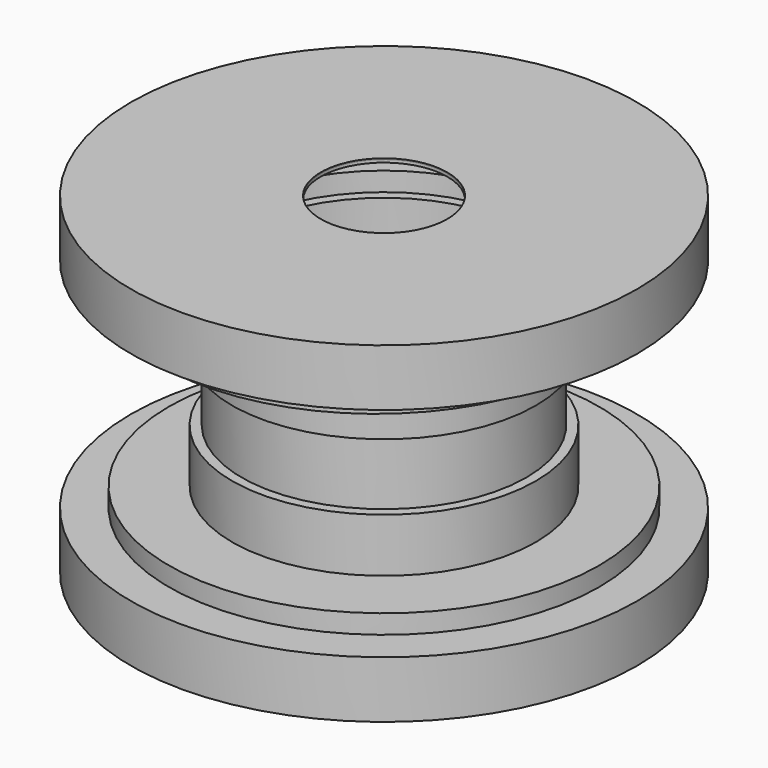
from build123d import *

# Parameters (mm, degrees)
F0_R      = 20
F0_R_2    = 17
F1_DEPTH  = 4.5
F0_R_3    = 12
F2_DEPTH  = 6
F0_R_4    = 11.25
F3_DEPTH  = 10.25
F0_R_5    = 5
F4_DEPTH  = 15.5
F5_R      = 12
F5_R_2    = 11.25
F6_DEPTH  = 4.7
F7_R      = 17
F7_R_2    = 12
F8_DEPTH  = 1.5
F9_R      = 20
F9_R_2    = 17
F10_DEPTH = 4.5
F11_R     = 20
F12_DEPTH = 0.1
F13_R     = 5
F14_DEPTH = 79
F15_R     = 12
F15_R_2   = 5
F16_DEPTH = 0.2


with BuildPart() as f1:
    # F0 (on Top) → F1 (new body)
    with BuildSketch(Plane.XY):
        Circle(F0_R)
        Circle(F0_R_2, mode=Mode.SUBTRACT)
    extrude(amount=F1_DEPTH)

    # F0 (on Top) → F2 (join)
    with BuildSketch(Plane.XY):
        Circle(F0_R_2)
        Circle(F0_R_3, mode=Mode.SUBTRACT)
    extrude(amount=F2_DEPTH)

    # F0 (on Top) → F3 (join)
    with BuildSketch(Plane.XY):
        Circle(F0_R_3)
        Circle(F0_R_4, mode=Mode.SUBTRACT)
    extrude(amount=F3_DEPTH)

    # F0 (on Top) → F4 (join)
    with BuildSketch(Plane.XY):
        Circle(F0_R_4)
        Circle(F0_R_5, mode=Mode.SUBTRACT)
    extrude(amount=F4_DEPTH)

    # F5 (on face) → F6 (join)
    with BuildSketch(Plane.XY.offset(15.5)):
        Circle(F5_R)
        Circle(F5_R_2, mode=Mode.SUBTRACT)
    extrude(amount=F6_DEPTH)


with BuildPart() as f8:
    # F7 (on face) → F8 (new body)
    with BuildSketch(Plane.XY.offset(20.2)):
        with Locations((0, -0.8117613615)):
            Circle(F7_R)
        Circle(F7_R_2, mode=Mode.SUBTRACT)
    extrude(amount=F8_DEPTH)


with BuildPart() as f10:
    # F9 (on face) → F10 (new body)
    with BuildSketch(Plane.XY.offset(21.7)):
        Circle(F9_R)
        with Locations((0, -0.8117613615)):
            Circle(F9_R_2, mode=Mode.SUBTRACT)
    extrude(amount=F10_DEPTH)

    # F11 (on face) → F12 (join)
    with BuildSketch(Plane.XY.offset(26.2)):
        Circle(F11_R)
    extrude(amount=-F12_DEPTH)

    # F13 (on face) → F14 (cut)
    with BuildSketch(Plane(origin=(0, 0, 26.1), x_dir=(1, 0, 0), z_dir=(0, 0, -1))):
        Circle(F13_R)
    extrude(amount=-F14_DEPTH, mode=Mode.SUBTRACT)


with BuildPart() as f16:
    # F15 (on face) → F16 (new body)
    with BuildSketch(Plane(origin=(0, 0, 26.1), x_dir=(1, 0, 0), z_dir=(0, 0, -1))):
        Circle(F15_R)
        Circle(F15_R_2, mode=Mode.SUBTRACT)
    extrude(amount=F16_DEPTH)


solid = Compound([f1.part, f8.part, f10.part, f16.part])
